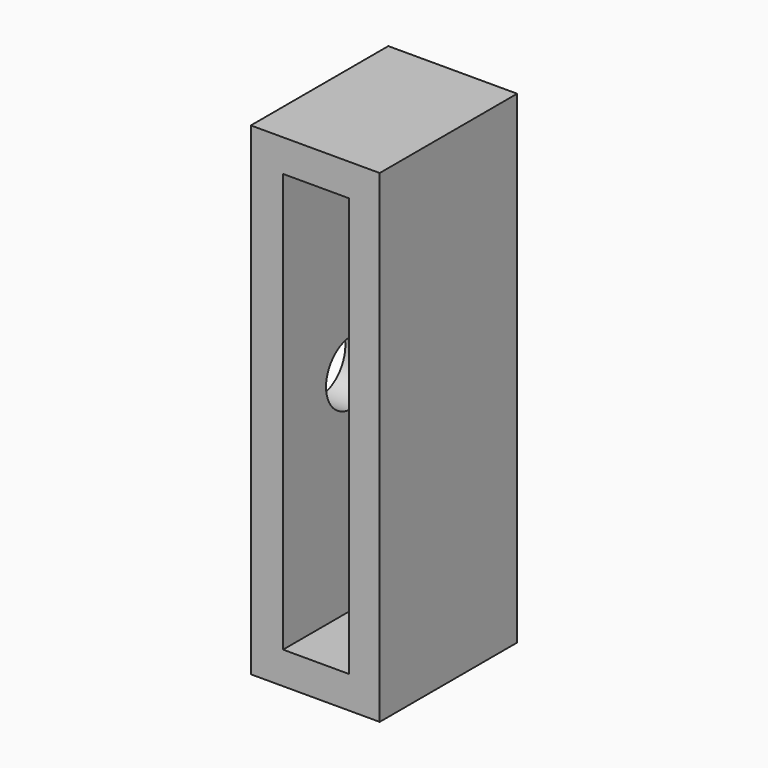
from build123d import *

# Parameters (mm, degrees)
F0_W     = 304.8
F0_H     = 1143
F1_DEPTH = 406.4
F2_W     = 156.097188
F2_H     = 990.6
F3_DEPTH = 381
F4_R     = 76.2
F5_DEPTH = 76.2


with BuildPart() as f1:
    # F0 (on Front) → F1 (new body)
    with BuildSketch(Plane.XZ):
        Rectangle(F0_W, F0_H)
    extrude(amount=F1_DEPTH)

    # F2 (on face) → F3 (cut)
    with BuildSketch(Plane.XZ.offset(406.4)):
        with Locations((1.848594, 0)):
            Rectangle(F2_W, F2_H)
    extrude(amount=-F3_DEPTH, mode=Mode.SUBTRACT)

    # F4 (on face) → F5 (cut)
    with BuildSketch(Plane(origin=(-152.4, 0, 0), x_dir=(0, -1, 0), z_dir=(-1, 0, 0))):
        with Locations((203.2, 0)):
            Circle(F4_R)
    extrude(amount=-F5_DEPTH, mode=Mode.SUBTRACT)


solid = f1.part
